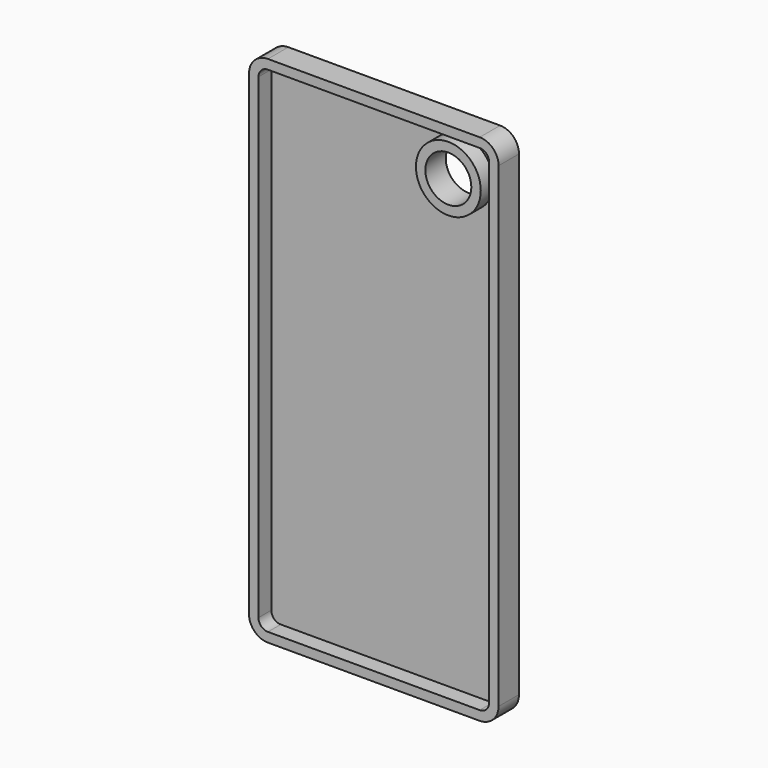
from build123d import *

# Parameters (mm, degrees)
F1_DEPTH = 6.858
F2_R     = 5.08
F3_R     = 6.181057
F4_DEPTH = 6.858
F6_T     = -2.54


with BuildPart() as f1:
    # F0 (on Front) → F1 (new body)
    with BuildSketch(Plane.XZ):
        Polygon((0, -61.929818), (0, 76.246182), (-67.125276, 76.269276), (-67.125276, -61.929818), align=None)
    extrude(amount=F1_DEPTH)

    # F2
    f2_edges = [f1.edges().sort_by_distance(p)[0] for p in [
        (-67.125276, -3.429, 76.269276),
        (0, -3.429, -61.929818),
        (-67.125276, -3.429, -61.929818),
        (0, -3.429, 76.246182),
    ]]
    fillet(f2_edges, radius=F2_R)

    # F3 (on face) → F4 (cut)
    with BuildSketch(Plane.XZ.offset(6.858)):
        with Locations((-13.514167, 63.706279)):
            Circle(F3_R)
    extrude(amount=-F4_DEPTH, mode=Mode.SUBTRACT)

    # F6
    f6_openings = [f1.faces().sort_by_distance(p)[0] for p in [
        (-33.827013, -6.858, 6.420933),
    ]]
    offset(amount=F6_T, openings=f6_openings)


solid = f1.part
